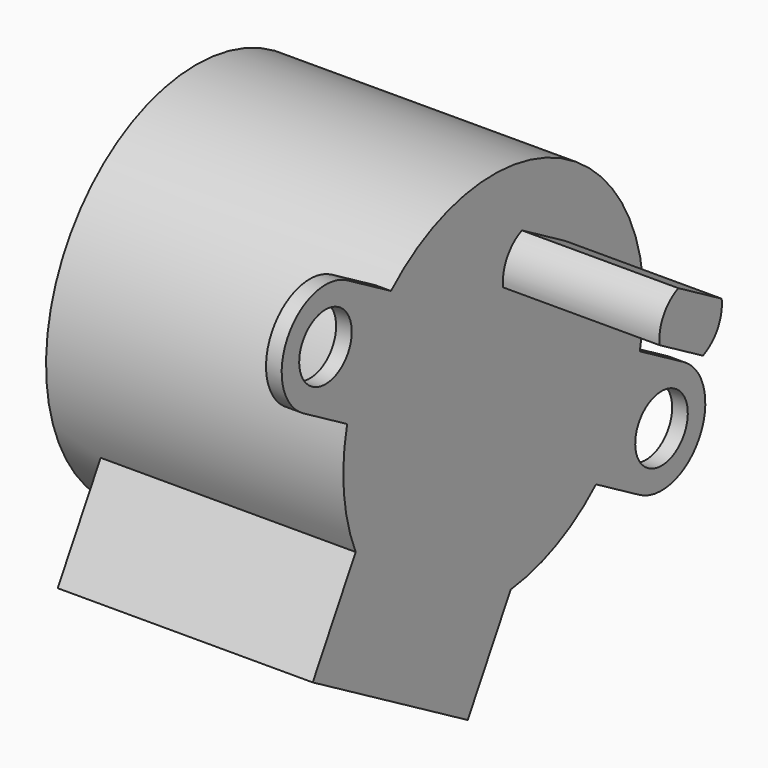
from build123d import *

# Parameters (mm, degrees)
SKETCH034_R             = 12
PAD014_DEPTH            = 19
SKETCH035_W             = 14.3
SKETCH035_H             = 10
PAD015_DEPTH            = 16.3
SKETCH036_R             = 2.1
PAD016_DEPTH            = 1
PAD017_DEPTH            = 10
BODY007_ROLL_ANGLE      = 90
BODY007_PITCH_ANGLE     = 30
BODY007_PLACEMENT_ANGLE = 90


with BuildPart() as part:
    # Sketch034 → Pad014 (new body)
    with BuildSketch(Plane.XY):
        Circle(SKETCH034_R)
    extrude(amount=PAD014_DEPTH)

    # Sketch035 (on Face3 of Pad014) → Pad015 (join)
    with BuildSketch(Plane.XY.offset(19)):
        with Locations((0, -11.5)):
            Rectangle(SKETCH035_W, SKETCH035_H)
    extrude(amount=-PAD015_DEPTH)

    # Sketch036 (on Face3 of Pad015) → Pad016 (join)
    with BuildSketch(Plane.XY.offset(19)):
        with BuildLine():
            ThreePointArc((15.5, -3.5), (19, 0), (15.5, 3.5))
            Line((15.5, 3.5), (-15.5, 3.5))
            ThreePointArc((-15.5, 3.5), (-19, 0), (-15.5, -3.5))
            Line((-15.5, -3.5), (15.5, -3.5))
        make_face()
        with Locations((15.5, 0)):
            Circle(SKETCH036_R, mode=Mode.SUBTRACT)
        with Locations((-15.5, 0)):
            Circle(SKETCH036_R, mode=Mode.SUBTRACT)
    extrude(amount=-PAD016_DEPTH)

    # Sketch037 (on Face11 of Pad016) → Pad017 (join)
    with BuildSketch(Plane.XY.offset(19)):
        with BuildLine():
            ThreePointArc((-2, 8), (-2.5, 6.5), (-2, 5))
            Line((-2, 5), (2, 5))
            ThreePointArc((2, 5), (2.5, 6.5), (2, 8))
            Line((-2, 8), (2, 8))
        make_face()
    extrude(amount=PAD017_DEPTH)


with BuildPart() as part_1:
    # Body007 roll: moved
    add(part.part.rotate(Axis((0, 0, 0), (1, 0, 0)), BODY007_ROLL_ANGLE))


with BuildPart() as part_2:
    # Body007 pitch: moved
    add(part_1.part.rotate(Axis((0, 0, 0), (0, 1, 0)), BODY007_PITCH_ANGLE))


with BuildPart() as part_3:
    # Body007 placement: moved
    add(part_2.part.moved(Location((20.005183, -14.807107, -27.2))).rotate(Axis((20.005183, -14.807107, -27.2), (0, 0, 1)), BODY007_PLACEMENT_ANGLE))


solid = part_3.part
